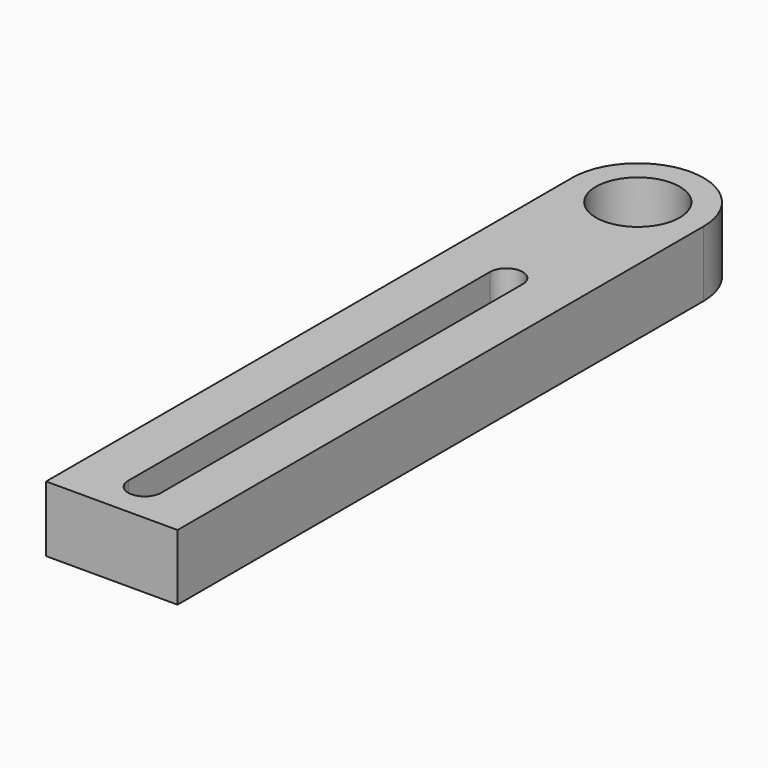
from build123d import *

# Parameters (mm, degrees)
F1_DEPTH = 8


with BuildPart() as f1:
    # F0 (on Top) → F1 (new body)
    with BuildSketch(Plane.XY):
        with BuildLine():
            ThreePointArc((-5.1, 0), (0, 5.1), (5.1, 0))
            Line((5.1, 0), (8, 0))
            ThreePointArc((8, 0), (0, 8), (-8, 0))
            Line((-8, 0), (-5.1, 0))
        make_face()
        with BuildLine():
            Line((8, 0), (5.1, 0))
            ThreePointArc((5.1, 0), (0, -5.1), (-5.1, 0))
            Line((-5.1, 0), (-8, 0))
            ThreePointArc((-8, 0), (0, -8), (8, 0))
        make_face()
        with BuildLine():
            Line((8, -80), (8, 0))
            ThreePointArc((8, 0), (0, -8), (-8, 0))
            Line((-8, 0), (-8, -80))
            Line((-8, -80), (8, -80))
        make_face()
        with BuildLine():
            ThreePointArc((-2, -20), (0, -18), (2, -20))
            Line((2, -20), (2, -75))
            ThreePointArc((2, -75), (0, -77), (-2, -75))
            Line((-2, -75), (-2, -20))
        make_face(mode=Mode.SUBTRACT)
    extrude(amount=F1_DEPTH)


solid = f1.part
